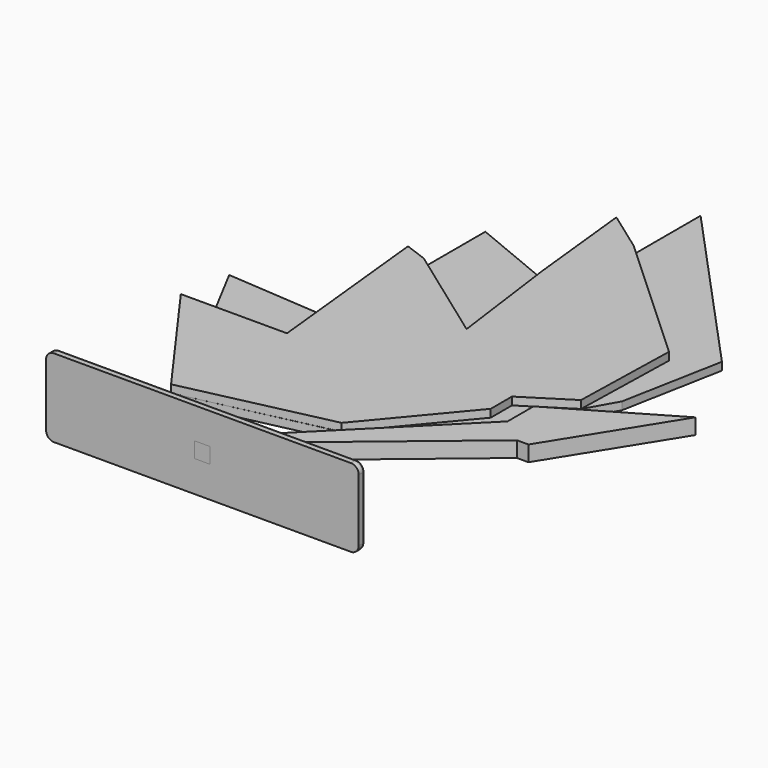
from build123d import *

# Parameters (mm, degrees)
PAD_DEPTH     = 5
PAD001_DEPTH  = 5
SKETCH002_W   = 10
SKETCH002_H   = 10
PAD002_DEPTH  = 5
SKETCH003_W   = 200
SKETCH003_H   = 50
SKETCH003_W_2 = 10
SKETCH003_H_2 = 10
PAD003_DEPTH  = 5
FILLET_R      = 5
FILLET001_R   = 2


with BuildPart() as monarchbody:
    # Sketch → Pad (new body)
    with BuildSketch(Plane.XY):
        Polygon((0, 0), (115.36686, 96.085936), (122.70686, 96.085936), (169.441716, 171.110235), (113.177076, 138.205482), (113.177076, 149.905482), (124.051124, 169.156643), (136.265977, 233.863829), (29.25228, 350.566974), (29.25228, 296.966974), (3.473517, 315.484073), (10.77088, 247.313537), (-43.914811, 269.909202), (-43.914811, 220.669202), (-58.229767, 225.955945), (-50.159778, 148.656051), (-114.557198, 153.373802), (-94.080062, 114.666554), (-114.540062, 114.666554), (-57.383847, 35.417509), (35.53474, 56.034079), (40.784409, 50.784409), (-10, 0), align=None)
    extrude(amount=PAD_DEPTH)

    # Sketch001 (on Face25 of Pad) → Pad001 (join)
    with BuildSketch(Plane.XY.offset(5)):
        Polygon((29.25228, 296.966974), (3.473517, 315.484073), (10.77088, 247.313537), (20.584034, 174.253766), (-43.914811, 220.669202), (-58.229767, 225.955945), (-50.159778, 148.656051), (-46.611328, 114.666554), (-94.080062, 114.666554), (-114.540062, 114.666554), (-57.383847, 35.417509), (35.193908, 56.060199), (83.883975, 114.479096), (83.883975, 131.449096), (113.191885, 150.026943), (114.882454, 218.225993), align=None)
        Polygon((-10, 0), (0, 0), (115.36686, 96.085936), (122.70686, 96.085936), (169.441716, 171.110235), (98.959853, 129.890949), (98.959853, 109.097693), align=None)
    extrude(amount=PAD001_DEPTH)

    # Sketch002 (on Face2 of Pad001) → Pad002 (join)
    with BuildSketch(Plane.XZ):
        with Locations((-5, 5)):
            Rectangle(SKETCH002_W, SKETCH002_H)
    extrude(amount=PAD002_DEPTH)


with BuildPart() as standbody:
    # Sketch003 → Pad003 (new body)
    with BuildSketch(Plane.XZ):
        with Locations((-5, 5)):
            Rectangle(SKETCH003_W, SKETCH003_H)
        with Locations((-5, 5)):
            Rectangle(SKETCH003_W_2, SKETCH003_H_2, mode=Mode.SUBTRACT)
    extrude(amount=PAD003_DEPTH)

    # Fillet
    fillet_edges = [standbody.edges().sort_by_distance(p)[0] for p in [
        (95, -2.5, 30),
        (-105, -2.5, 30),
        (-105, -2.5, -20),
        (95, -2.5, -20),
    ]]
    fillet(fillet_edges, radius=FILLET_R)

    # Fillet001
    fillet001_edges = [standbody.edges().sort_by_distance(p)[0] for p in [
        (93.535534, 0, -18.535534),
        (-5, 0, -20),
        (-103.535534, 0, -18.535534),
        (-105, 0, 5),
        (-103.535534, 0, 28.535534),
        (-5, 0, 30),
        (93.535534, 0, 28.535534),
        (95, 0, 5),
    ]]
    fillet(fillet001_edges, radius=FILLET001_R)


solid = Compound([monarchbody.part, standbody.part])
